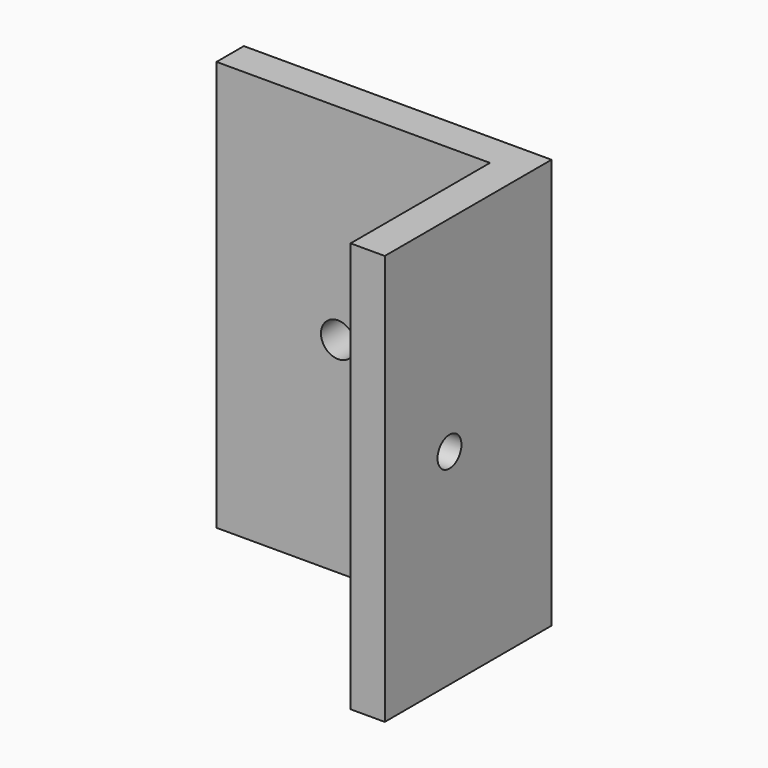
from build123d import *

# Parameters (mm, degrees)
F0_W     = 203.2
F0_H     = 304.8
F1_DEPTH = 25.4
F2_W     = 25.4
F2_H     = 304.8
F2_W_2   = 129.4638
F3_DEPTH = 25.4
F4_R     = 12.7
F5_DEPTH = 25.401
F6_R     = 11.1125
F7_DEPTH = 25.401


with BuildPart() as f1:
    # F0 (on Front) → F1 (new body)
    with BuildSketch(Plane.XZ):
        Rectangle(F0_W, F0_H)
    extrude(amount=-F1_DEPTH)

    # F2 (on face) → F3 (join)
    with BuildSketch(Plane.YZ.offset(101.6)):
        with Locations((12.7, 0)):
            Rectangle(F2_W, F2_H)
        with Locations((-64.7319, 0)):
            Rectangle(F2_W_2, F2_H)
    extrude(amount=F3_DEPTH)

    # F4 (on face) → F5 (cut, through all)
    with BuildSketch(Plane.XZ):
        with Locations((-11.2776, 0)):
            Circle(F4_R)
    extrude(amount=-F5_DEPTH, mode=Mode.SUBTRACT)

    # F6 (on face) → F7 (cut, through all)
    with BuildSketch(Plane(origin=(101.6, 0, 0), x_dir=(0, -1, 0), z_dir=(-1, 0, 0))):
        with Locations((69.3547, 0)):
            Circle(F6_R)
    extrude(amount=-F7_DEPTH, mode=Mode.SUBTRACT)


solid = f1.part
